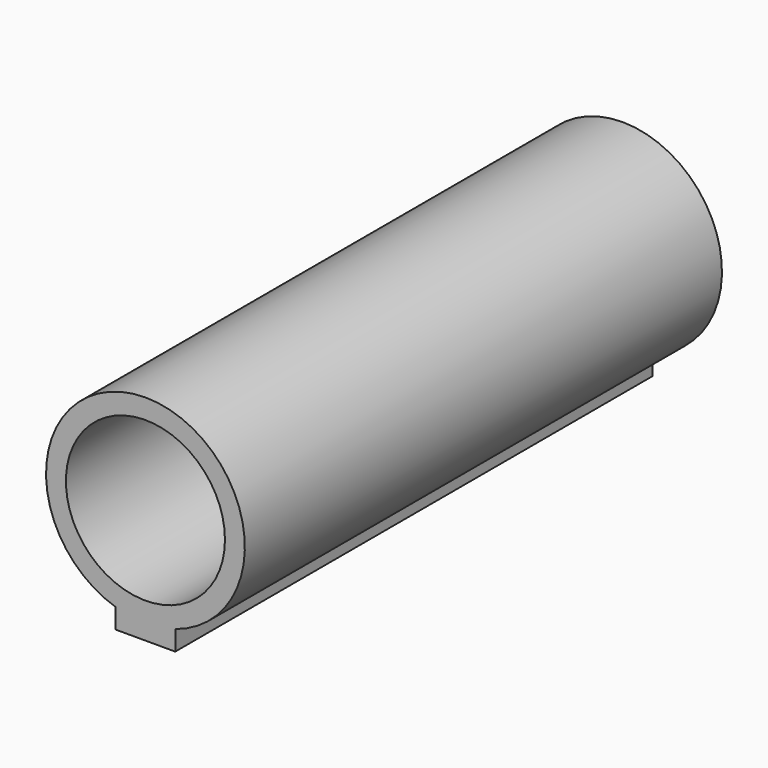
from build123d import *

# Parameters (mm, degrees)
F0_R     = 4
F1_DEPTH = 15


with BuildPart() as f1:
    # F0 (on Front) → F1 (new body, symmetric)
    with BuildSketch(Plane.XZ):
        with BuildLine():
            Line((1.5, -5.769696), (1.5, -4.769696))
            ThreePointArc((1.5, -4.769696), (0, 5), (-1.5, -4.769696))
            Line((-1.5, -4.769696), (-1.5, -5.769696))
            Line((-1.5, -5.769696), (1.5, -5.769696))
        make_face()
        Circle(F0_R, mode=Mode.SUBTRACT)
    extrude(amount=F1_DEPTH, both=True)


solid = f1.part
